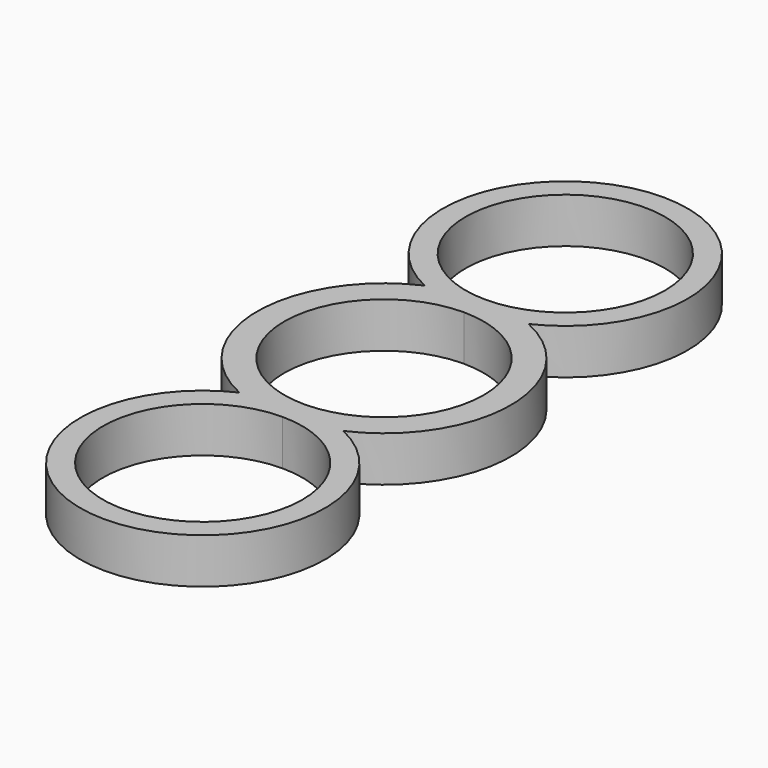
from build123d import *

# Parameters (mm, degrees)
F1_DEPTH = 5


with BuildPart() as f1:
    # F0 (on Top) → F1 (new body)
    with BuildSketch(Plane.XY):
        with BuildLine():
            ThreePointArc((5.727074, -12.775), (14, 0), (5.727074, 12.775))
            ThreePointArc((5.727074, 12.775), (0, 38.5), (-5.727074, 12.775))
            ThreePointArc((-5.727074, 12.775), (-14, 0), (-5.727074, -12.775))
            ThreePointArc((-5.727074, -12.775), (0, -38.5), (5.727074, -12.775))
        make_face()
        with BuildLine():
            ThreePointArc((11, -25), (-7.778175, -32.778175), (0, -14))
            ThreePointArc((0, -14), (7.778175, -17.221825), (11, -25))
        make_face(mode=Mode.SUBTRACT)
        with BuildLine():
            ThreePointArc((0, 11), (7.778175, 7.778175), (11, 0))
            ThreePointArc((11, 0), (7.778175, -7.778175), (0, -11))
            ThreePointArc((0, -11), (-11, 0), (0, 11))
        make_face(mode=Mode.SUBTRACT)
        with BuildLine():
            ThreePointArc((11, 25), (7.778175, 17.221825), (0, 14))
            ThreePointArc((0, 14), (-7.778175, 32.778175), (11, 25))
        make_face(mode=Mode.SUBTRACT)
    extrude(amount=F1_DEPTH)


solid = f1.part
